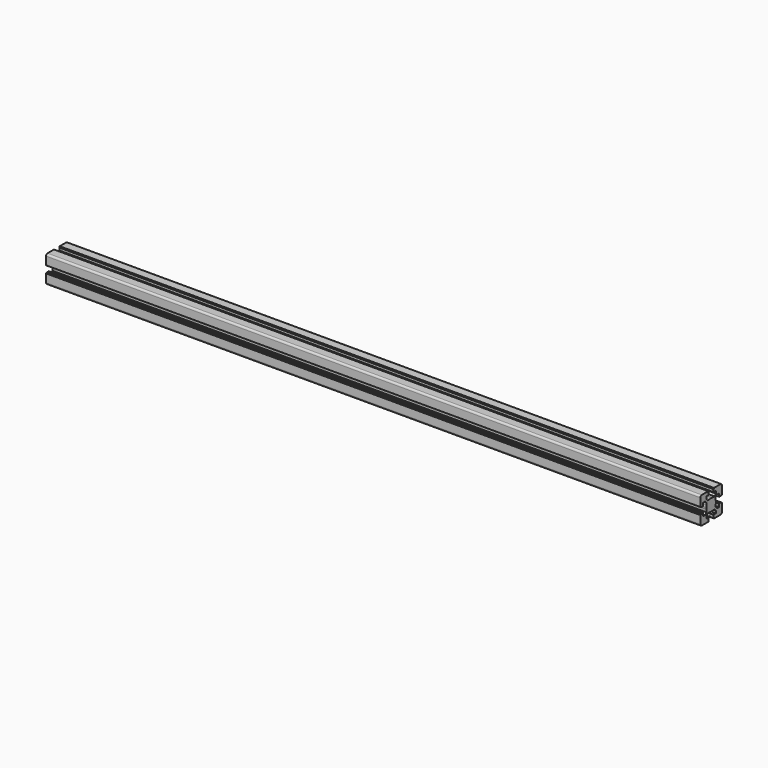
from build123d import *

# Parameters (mm, degrees)
F1_DEPTH = 1092.2


with BuildPart() as f1:
    # F0 (on Right) → F1 (new body)
    with BuildSketch(Plane.YZ):
        with BuildLine():
            Line((-20.088481, -9.788837), (-20.088481, -10.288837))
            Line((-20.088481, -10.288837), (-21.28859, -10.288837))
            ThreePointArc((-21.28859, -10.288837), (-21.500722, -10.376705), (-21.58859, -10.588837))
            Line((-21.58859, -10.588837), (-21.58859, -23.988949))
            ThreePointArc((-21.58859, -23.988949), (-20.70991, -26.11027), (-18.58859, -26.988949))
            Line((-18.58859, -26.988949), (-5.188544, -26.988949))
            ThreePointArc((-5.188544, -26.988949), (-4.976411, -26.901081), (-4.888544, -26.688949))
            Line((-4.888544, -26.688949), (-4.888544, -25.488841))
            Line((-4.888544, -25.488841), (-4.388544, -25.488841))
            ThreePointArc((-4.388544, -25.488841), (-4.176411, -25.400973), (-4.088544, -25.188841))
            Line((-4.088544, -25.188841), (-4.088544, -21.288841))
            ThreePointArc((-4.088544, -21.288841), (-4.176411, -21.076709), (-4.388544, -20.988841))
            Line((-4.388544, -20.988841), (-9.138663, -20.988841))
            Line((-9.138663, -20.988841), (-9.138663, -16.881665))
            Line((-9.138663, -16.881665), (-6.245729, -13.988731))
            Line((-6.245729, -13.988731), (-2.211433, -13.988731))
            ThreePointArc((-2.211433, -13.988731), (-0.669869, -14.363044), (0.91149, -14.48887))
            Line((0.91149, -14.48887), (0.91149, -4.48887))
            Line((0.91149, -4.48887), (-9.08851, -4.48887))
            ThreePointArc((-9.08851, -4.48887), (-8.962684, -6.070229), (-8.588371, -7.611793))
            Line((-8.588371, -7.611793), (-8.588371, -11.646022))
            Line((-8.588371, -11.646022), (-11.481305, -14.538956))
            Line((-11.481305, -14.538956), (-15.588481, -14.538956))
            Line((-15.588481, -14.538956), (-15.588481, -9.788837))
            ThreePointArc((-15.588481, -9.788837), (-15.676349, -9.576705), (-15.888481, -9.488837))
            Line((-15.888481, -9.488837), (-19.788481, -9.488837))
            ThreePointArc((-19.788481, -9.488837), (-20.000613, -9.576705), (-20.088481, -9.788837))
        make_face()
        with BuildLine():
            ThreePointArc((-8.588371, -1.365947), (-8.962684, -2.907511), (-9.08851, -4.48887))
            Line((-9.08851, -4.48887), (0.91149, -4.48887))
            Line((0.91149, -4.48887), (0.91149, 5.51113))
            ThreePointArc((0.91149, 5.51113), (-0.669869, 5.385303), (-2.211433, 5.010991))
            Line((-2.211433, 5.010991), (-6.245729, 5.010991))
            Line((-6.245729, 5.010991), (-9.138663, 7.903925))
            Line((-9.138663, 7.903925), (-9.138663, 12.011101))
            Line((-9.138663, 12.011101), (-4.388544, 12.011101))
            ThreePointArc((-4.388544, 12.011101), (-4.176411, 12.098969), (-4.088544, 12.311101))
            Line((-4.088544, 12.311101), (-4.088544, 16.211101))
            ThreePointArc((-4.088544, 16.211101), (-4.176411, 16.423233), (-4.388544, 16.511101))
            Line((-4.388544, 16.511101), (-4.888544, 16.511101))
            Line((-4.888544, 16.511101), (-4.888544, 17.711209))
            ThreePointArc((-4.888544, 17.711209), (-4.976411, 17.923341), (-5.188544, 18.011209))
            Line((-5.188544, 18.011209), (-18.58859, 18.011209))
            ThreePointArc((-18.58859, 18.011209), (-20.70991, 17.13253), (-21.58859, 15.011209))
            Line((-21.58859, 15.011209), (-21.58859, 1.611097))
            ThreePointArc((-21.58859, 1.611097), (-21.500722, 1.398965), (-21.28859, 1.311097))
            Line((-21.28859, 1.311097), (-20.088481, 1.311097))
            Line((-20.088481, 1.311097), (-20.088481, 0.811097))
            ThreePointArc((-20.088481, 0.811097), (-20.000613, 0.598965), (-19.788481, 0.511097))
            Line((-19.788481, 0.511097), (-15.888481, 0.511097))
            ThreePointArc((-15.888481, 0.511097), (-15.676349, 0.598965), (-15.588481, 0.811097))
            Line((-15.588481, 0.811097), (-15.588481, 5.561216))
            Line((-15.588481, 5.561216), (-11.481305, 5.561216))
            Line((-11.481305, 5.561216), (-8.588371, 2.668282))
            Line((-8.588371, 2.668282), (-8.588371, -1.365947))
        make_face()
        with BuildLine():
            Line((0.91149, 5.51113), (0.91149, -4.48887))
            Line((0.91149, -4.48887), (10.91149, -4.48887))
            ThreePointArc((10.91149, -4.48887), (10.785663, -2.907511), (10.41135, -1.365947))
            Line((10.41135, -1.365947), (10.41135, 2.668282))
            Line((10.41135, 2.668282), (13.304285, 5.561216))
            Line((13.304285, 5.561216), (14.016842, 5.561216))
            Line((14.016842, 5.561216), (17.41146, 5.561216))
            Line((17.41146, 5.561216), (17.41146, 0.811097))
            ThreePointArc((17.41146, 0.811097), (17.499328, 0.598965), (17.71146, 0.511097))
            Line((17.71146, 0.511097), (21.61146, 0.511097))
            ThreePointArc((21.61146, 0.511097), (21.823593, 0.598965), (21.91146, 0.811097))
            Line((21.91146, 0.811097), (21.91146, 1.311097))
            Line((21.91146, 1.311097), (23.111569, 1.311097))
            ThreePointArc((23.111569, 1.311097), (23.323701, 1.398965), (23.411569, 1.611097))
            Line((23.411569, 1.611097), (23.411569, 15.011209))
            ThreePointArc((23.411569, 15.011209), (22.532889, 17.13253), (20.411569, 18.011209))
            Line((20.411569, 18.011209), (7.011523, 18.011209))
            ThreePointArc((7.011523, 18.011209), (6.799391, 17.923341), (6.711523, 17.711209))
            Line((6.711523, 17.711209), (6.711523, 16.511101))
            Line((6.711523, 16.511101), (6.211523, 16.511101))
            ThreePointArc((6.211523, 16.511101), (5.999391, 16.423233), (5.911523, 16.211101))
            Line((5.911523, 16.211101), (5.911523, 12.311101))
            ThreePointArc((5.911523, 12.311101), (5.999391, 12.098969), (6.211523, 12.011101))
            Line((6.211523, 12.011101), (10.961642, 12.011101))
            Line((10.961642, 12.011101), (10.961642, 7.903925))
            Line((10.961642, 7.903925), (8.068708, 5.010991))
            Line((8.068708, 5.010991), (4.034413, 5.010991))
            ThreePointArc((4.034413, 5.010991), (2.492849, 5.385303), (0.91149, 5.51113))
        make_face()
        with BuildLine():
            Line((10.91149, -4.48887), (0.91149, -4.48887))
            Line((0.91149, -4.48887), (0.91149, -14.48887))
            ThreePointArc((0.91149, -14.48887), (2.492849, -14.363044), (4.034413, -13.988731))
            Line((4.034413, -13.988731), (8.068708, -13.988731))
            Line((8.068708, -13.988731), (10.961642, -16.881665))
            Line((10.961642, -16.881665), (10.961642, -20.988841))
            Line((10.961642, -20.988841), (6.211523, -20.988841))
            ThreePointArc((6.211523, -20.988841), (5.999391, -21.076709), (5.911523, -21.288841))
            Line((5.911523, -21.288841), (5.911523, -25.188841))
            ThreePointArc((5.911523, -25.188841), (5.999391, -25.400973), (6.211523, -25.488841))
            Line((6.211523, -25.488841), (6.711523, -25.488841))
            Line((6.711523, -25.488841), (6.711523, -26.688949))
            ThreePointArc((6.711523, -26.688949), (6.799391, -26.901081), (7.011523, -26.988949))
            Line((7.011523, -26.988949), (20.411569, -26.988949))
            ThreePointArc((20.411569, -26.988949), (22.532889, -26.11027), (23.411569, -23.988949))
            Line((23.411569, -23.988949), (23.411569, -10.588837))
            ThreePointArc((23.411569, -10.588837), (23.323701, -10.376705), (23.111569, -10.288837))
            Line((23.111569, -10.288837), (21.91146, -10.288837))
            Line((21.91146, -10.288837), (21.91146, -9.788837))
            ThreePointArc((21.91146, -9.788837), (21.823593, -9.576705), (21.61146, -9.488837))
            Line((21.61146, -9.488837), (17.71146, -9.488837))
            ThreePointArc((17.71146, -9.488837), (17.499328, -9.576705), (17.41146, -9.788837))
            Line((17.41146, -9.788837), (17.41146, -14.538956))
            Line((17.41146, -14.538956), (13.304285, -14.538956))
            Line((13.304285, -14.538956), (10.41135, -11.646022))
            Line((10.41135, -11.646022), (10.41135, -7.611793))
            ThreePointArc((10.41135, -7.611793), (10.785663, -6.070229), (10.91149, -4.48887))
        make_face()
    extrude(amount=F1_DEPTH)


solid = f1.part
